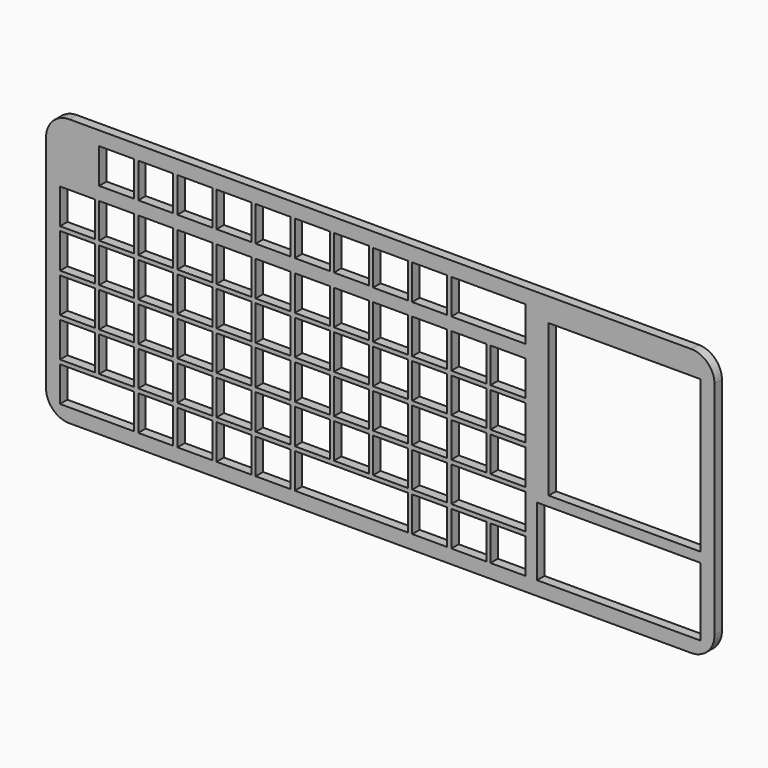
from build123d import *

# Parameters (mm, degrees)
F0_W     = 143.9
F0_H     = 57.606564
F0_W_2   = 7.525
F0_H_2   = 7.525
F0_W_3   = 35.2
F0_H_3   = 14.728278
F0_W_4   = 32.7
F0_H_4   = 32.7
F1_DEPTH = 2
F2_R     = 5


with BuildPart() as f1:
    # F0 (on Front) → F1 (new body)
    with BuildSketch(Plane.XZ):
        with Locations((13.984023, -7.896718)):
            Rectangle(F0_W, F0_H)
        Polygon((-39.015977, -26.175), (-39.015977, -33.7), (-46.540977, -33.7), (-47.440977, -33.7), (-54.965977, -33.7), (-54.965977, -26.175), align=None, mode=Mode.SUBTRACT)
        with Locations((-34.353477, -29.9375)):
            Rectangle(F0_W_2, F0_H_2, mode=Mode.SUBTRACT)
        with Locations((-25.928477, -29.9375)):
            Rectangle(F0_W_2, F0_H_2, mode=Mode.SUBTRACT)
        with Locations((-17.503477, -29.9375)):
            Rectangle(F0_W_2, F0_H_2, mode=Mode.SUBTRACT)
        with Locations((-9.078477, -29.9375)):
            Rectangle(F0_W_2, F0_H_2, mode=Mode.SUBTRACT)
        Polygon((19.959023, -26.175), (19.959023, -33.7), (12.434023, -33.7), (11.534023, -33.7), (4.009023, -33.7), (3.109023, -33.7), (-4.415977, -33.7), (-4.415977, -26.175), align=None, mode=Mode.SUBTRACT)
        with Locations((-51.203477, -21.5125)):
            Rectangle(F0_W_2, F0_H_2, mode=Mode.SUBTRACT)
        with Locations((-42.778477, -21.5125)):
            Rectangle(F0_W_2, F0_H_2, mode=Mode.SUBTRACT)
        with Locations((-34.353477, -21.5125)):
            Rectangle(F0_W_2, F0_H_2, mode=Mode.SUBTRACT)
        with Locations((-25.928477, -21.5125)):
            Rectangle(F0_W_2, F0_H_2, mode=Mode.SUBTRACT)
        with Locations((-51.203477, -13.0875)):
            Rectangle(F0_W_2, F0_H_2, mode=Mode.SUBTRACT)
        with Locations((-42.778477, -13.0875)):
            Rectangle(F0_W_2, F0_H_2, mode=Mode.SUBTRACT)
        with Locations((-34.353477, -13.0875)):
            Rectangle(F0_W_2, F0_H_2, mode=Mode.SUBTRACT)
        with Locations((-25.928477, -13.0875)):
            Rectangle(F0_W_2, F0_H_2, mode=Mode.SUBTRACT)
        with Locations((-17.503477, -21.5125)):
            Rectangle(F0_W_2, F0_H_2, mode=Mode.SUBTRACT)
        with Locations((-9.078477, -21.5125)):
            Rectangle(F0_W_2, F0_H_2, mode=Mode.SUBTRACT)
        with Locations((-0.653477, -21.5125)):
            Rectangle(F0_W_2, F0_H_2, mode=Mode.SUBTRACT)
        with Locations((7.771523, -21.5125)):
            Rectangle(F0_W_2, F0_H_2, mode=Mode.SUBTRACT)
        with Locations((-17.503477, -13.0875)):
            Rectangle(F0_W_2, F0_H_2, mode=Mode.SUBTRACT)
        with Locations((-9.078477, -13.0875)):
            Rectangle(F0_W_2, F0_H_2, mode=Mode.SUBTRACT)
        with Locations((-0.653477, -13.0875)):
            Rectangle(F0_W_2, F0_H_2, mode=Mode.SUBTRACT)
        with Locations((7.771523, -13.0875)):
            Rectangle(F0_W_2, F0_H_2, mode=Mode.SUBTRACT)
        with Locations((24.621523, -29.9375)):
            Rectangle(F0_W_2, F0_H_2, mode=Mode.SUBTRACT)
        with Locations((33.046523, -29.9375)):
            Rectangle(F0_W_2, F0_H_2, mode=Mode.SUBTRACT)
        with Locations((41.471523, -29.9375)):
            Rectangle(F0_W_2, F0_H_2, mode=Mode.SUBTRACT)
        with Locations((65.334023, -26.335861)):
            Rectangle(F0_W_3, F0_H_3, mode=Mode.SUBTRACT)
        with Locations((16.196523, -21.5125)):
            Rectangle(F0_W_2, F0_H_2, mode=Mode.SUBTRACT)
        with Locations((24.621523, -21.5125)):
            Rectangle(F0_W_2, F0_H_2, mode=Mode.SUBTRACT)
        Polygon((29.284023, -17.75), (45.234023, -17.75), (45.234023, -25.275), (37.709023, -25.275), (36.809023, -25.275), (29.284023, -25.275), align=None, mode=Mode.SUBTRACT)
        with Locations((16.196523, -13.0875)):
            Rectangle(F0_W_2, F0_H_2, mode=Mode.SUBTRACT)
        with Locations((24.621523, -13.0875)):
            Rectangle(F0_W_2, F0_H_2, mode=Mode.SUBTRACT)
        with Locations((33.046523, -13.0875)):
            Rectangle(F0_W_2, F0_H_2, mode=Mode.SUBTRACT)
        with Locations((41.471523, -13.0875)):
            Rectangle(F0_W_2, F0_H_2, mode=Mode.SUBTRACT)
        with Locations((-51.203477, -4.6625)):
            Rectangle(F0_W_2, F0_H_2, mode=Mode.SUBTRACT)
        with Locations((-42.778477, -4.6625)):
            Rectangle(F0_W_2, F0_H_2, mode=Mode.SUBTRACT)
        with Locations((-34.353477, -4.6625)):
            Rectangle(F0_W_2, F0_H_2, mode=Mode.SUBTRACT)
        with Locations((-25.928477, -4.6625)):
            Rectangle(F0_W_2, F0_H_2, mode=Mode.SUBTRACT)
        with Locations((-51.203477, 3.7625)):
            Rectangle(F0_W_2, F0_H_2, mode=Mode.SUBTRACT)
        with Locations((-42.778477, 3.7625)):
            Rectangle(F0_W_2, F0_H_2, mode=Mode.SUBTRACT)
        with Locations((-34.353477, 3.7625)):
            Rectangle(F0_W_2, F0_H_2, mode=Mode.SUBTRACT)
        with Locations((-25.928477, 3.7625)):
            Rectangle(F0_W_2, F0_H_2, mode=Mode.SUBTRACT)
        with Locations((-17.503477, -4.6625)):
            Rectangle(F0_W_2, F0_H_2, mode=Mode.SUBTRACT)
        with Locations((-9.078477, -4.6625)):
            Rectangle(F0_W_2, F0_H_2, mode=Mode.SUBTRACT)
        with Locations((-0.653477, -4.6625)):
            Rectangle(F0_W_2, F0_H_2, mode=Mode.SUBTRACT)
        with Locations((7.771523, -4.6625)):
            Rectangle(F0_W_2, F0_H_2, mode=Mode.SUBTRACT)
        with Locations((-17.503477, 3.7625)):
            Rectangle(F0_W_2, F0_H_2, mode=Mode.SUBTRACT)
        with Locations((-9.078477, 3.7625)):
            Rectangle(F0_W_2, F0_H_2, mode=Mode.SUBTRACT)
        with Locations((-0.653477, 3.7625)):
            Rectangle(F0_W_2, F0_H_2, mode=Mode.SUBTRACT)
        with Locations((7.771523, 3.7625)):
            Rectangle(F0_W_2, F0_H_2, mode=Mode.SUBTRACT)
        with Locations((-42.778477, 14.144064)):
            Rectangle(F0_W_2, F0_H_2, mode=Mode.SUBTRACT)
        with Locations((-34.353477, 14.144064)):
            Rectangle(F0_W_2, F0_H_2, mode=Mode.SUBTRACT)
        with Locations((-25.928477, 14.144064)):
            Rectangle(F0_W_2, F0_H_2, mode=Mode.SUBTRACT)
        with Locations((-17.503477, 14.144064)):
            Rectangle(F0_W_2, F0_H_2, mode=Mode.SUBTRACT)
        with Locations((-9.078477, 14.144064)):
            Rectangle(F0_W_2, F0_H_2, mode=Mode.SUBTRACT)
        with Locations((-0.653477, 14.144064)):
            Rectangle(F0_W_2, F0_H_2, mode=Mode.SUBTRACT)
        with Locations((7.771523, 14.144064)):
            Rectangle(F0_W_2, F0_H_2, mode=Mode.SUBTRACT)
        with Locations((16.196523, -4.6625)):
            Rectangle(F0_W_2, F0_H_2, mode=Mode.SUBTRACT)
        with Locations((24.621523, -4.6625)):
            Rectangle(F0_W_2, F0_H_2, mode=Mode.SUBTRACT)
        with Locations((33.046523, -4.6625)):
            Rectangle(F0_W_2, F0_H_2, mode=Mode.SUBTRACT)
        with Locations((41.471523, -4.6625)):
            Rectangle(F0_W_2, F0_H_2, mode=Mode.SUBTRACT)
        with Locations((16.196523, 3.7625)):
            Rectangle(F0_W_2, F0_H_2, mode=Mode.SUBTRACT)
        with Locations((24.621523, 3.7625)):
            Rectangle(F0_W_2, F0_H_2, mode=Mode.SUBTRACT)
        with Locations((33.046523, 3.7625)):
            Rectangle(F0_W_2, F0_H_2, mode=Mode.SUBTRACT)
        with Locations((41.471523, 3.7625)):
            Rectangle(F0_W_2, F0_H_2, mode=Mode.SUBTRACT)
        with Locations((66.584023, -0.5)):
            Rectangle(F0_W_4, F0_H_4, mode=Mode.SUBTRACT)
        Polygon((12.434023, 10.275), (12.434023, 10.313085), (12.434023, 17.8), (19.959023, 17.8), (19.959023, 10.304348), (19.959023, 10.275), align=None, mode=Mode.SUBTRACT)
        Polygon((20.859023, 10.275), (20.859023, 10.303303), (20.859023, 17.8), (28.384023, 17.8), (28.384023, 10.294565), (28.384023, 10.275), align=None, mode=Mode.SUBTRACT)
        Polygon((29.284023, 10.275), (29.284023, 10.29352), (29.284023, 17.8), (36.809023, 17.8), (37.709023, 17.8), (45.234023, 17.8), (45.234023, 10.275), (37.709023, 10.275), (36.809023, 10.275), align=None, mode=Mode.SUBTRACT)
    extrude(amount=F1_DEPTH)

    # F2
    f2_edges = [f1.edges().sort_by_distance(p)[0] for p in [
        (-57.965977, -1, 20.906564),
        (85.934023, -1, 20.906564),
        (-57.965977, -1, -36.7),
        (85.934023, -1, -36.7),
    ]]
    fillet(f2_edges, radius=F2_R)


solid = f1.part
